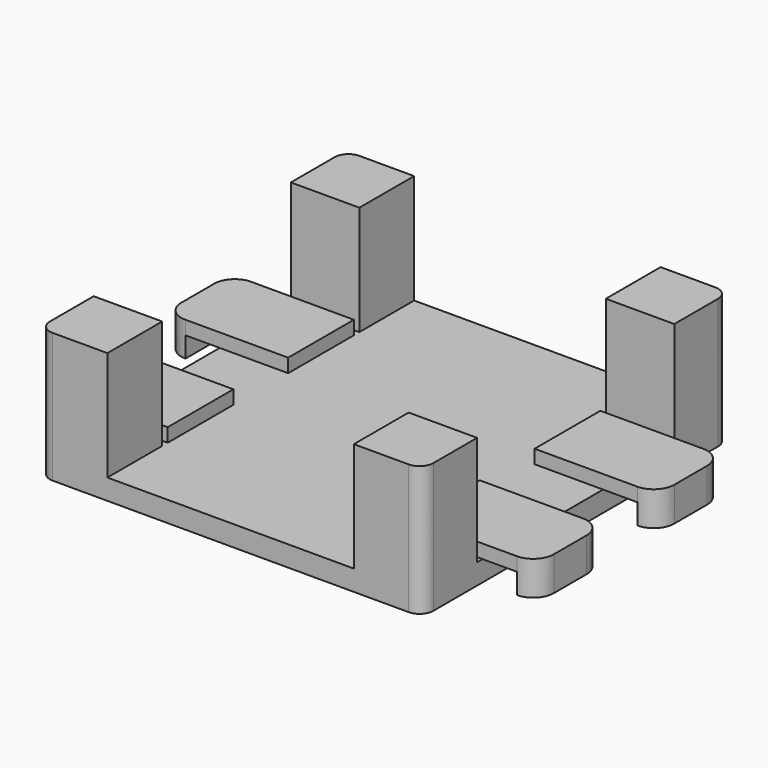
from build123d import *

# Parameters (mm, degrees)
F0_W     = 28
F0_H     = 28
F1_DEPTH = 1.5
F2_W     = 5
F2_H     = 5
F3_DEPTH = 8
F4_R     = 1
F5_W     = 5
F5_H     = 6
F5_W_2   = 2.5
F6_DEPTH = 1
F7_DEPTH = 1.5


with BuildPart() as f1:
    # F0 (on Top) → F1 (new body)
    with BuildSketch(Plane.XY):
        with Locations((14, -14)):
            Rectangle(F0_W, F0_H)
    extrude(amount=F1_DEPTH)

    # F2 (on face) → F3 (join)
    with BuildSketch(Plane.XY.offset(1.5)):
        with Locations((2.5, -2.5)):
            Rectangle(F2_W, F2_H)
        with Locations((25.5, -2.5)):
            Rectangle(F2_W, F2_H)
        with Locations((25.5, -25.5)):
            Rectangle(F2_W, F2_H)
        with Locations((2.5, -25.5)):
            Rectangle(F2_W, F2_H)
    extrude(amount=F3_DEPTH)

    # F4
    f4_edges = [f1.edges().sort_by_distance(p)[0] for p in [
        (0, -28, 4.75),
        (0, 0, 4.75),
        (28, 0, 4.75),
        (28, -28, 4.75),
    ]]
    fillet(f4_edges, radius=F4_R)

    # F5 (on face) → F6 (join)
    with BuildSketch(Plane.XY.offset(1.5)):
        with Locations((25.5, -19.5)):
            Rectangle(F5_W, F5_H)
        with BuildLine():
            Line((30.5, -16.5), (30.5, -22.5))
            ThreePointArc((30.5, -22.5), (31.56066, -22.06066), (32, -21))
            Line((32, -21), (32, -18))
            ThreePointArc((32, -18), (31.56066, -16.93934), (30.5, -16.5))
        make_face()
        with BuildLine():
            Line((30.5, -5.5), (30.5, -11.5))
            ThreePointArc((30.5, -11.5), (31.56066, -11.06066), (32, -10))
            Line((32, -10), (32, -7))
            ThreePointArc((32, -7), (31.56066, -5.93934), (30.5, -5.5))
        make_face()
        with Locations((25.5, -8.5)):
            Rectangle(F5_W, F5_H)
        with Locations((2.5, -19.5)):
            Rectangle(F5_W, F5_H)
        with Locations((2.5, -8.5)):
            Rectangle(F5_W, F5_H)
        with BuildLine():
            ThreePointArc((-4, -10), (-3.56066, -11.06066), (-2.5, -11.5))
            Line((-2.5, -11.5), (-2.5, -5.5))
            ThreePointArc((-2.5, -5.5), (-3.56066, -5.93934), (-4, -7))
            Line((-4, -7), (-4, -10))
        make_face()
        with BuildLine():
            ThreePointArc((-4, -21), (-3.56066, -22.06066), (-2.5, -22.5))
            Line((-2.5, -22.5), (-2.5, -16.5))
            ThreePointArc((-2.5, -16.5), (-3.56066, -16.93934), (-4, -18))
            Line((-4, -18), (-4, -21))
        make_face()
        with Locations((29.25, -8.5)):
            Rectangle(F5_W_2, F5_H)
        with Locations((29.25, -19.5)):
            Rectangle(F5_W_2, F5_H)
        with Locations((-1.25, -19.5)):
            Rectangle(F5_W_2, F5_H)
        with Locations((-1.25, -8.5)):
            Rectangle(F5_W_2, F5_H)
    extrude(amount=F6_DEPTH)

    # F5 (on face) → F7 (join, through all)
    with BuildSketch(Plane.XY.offset(1.5)):
        with BuildLine():
            Line((30.5, -16.5), (30.5, -22.5))
            ThreePointArc((30.5, -22.5), (31.56066, -22.06066), (32, -21))
            Line((32, -21), (32, -18))
            ThreePointArc((32, -18), (31.56066, -16.93934), (30.5, -16.5))
        make_face()
        with BuildLine():
            Line((30.5, -5.5), (30.5, -11.5))
            ThreePointArc((30.5, -11.5), (31.56066, -11.06066), (32, -10))
            Line((32, -10), (32, -7))
            ThreePointArc((32, -7), (31.56066, -5.93934), (30.5, -5.5))
        make_face()
        with BuildLine():
            ThreePointArc((-4, -10), (-3.56066, -11.06066), (-2.5, -11.5))
            Line((-2.5, -11.5), (-2.5, -5.5))
            ThreePointArc((-2.5, -5.5), (-3.56066, -5.93934), (-4, -7))
            Line((-4, -7), (-4, -10))
        make_face()
        with BuildLine():
            ThreePointArc((-4, -21), (-3.56066, -22.06066), (-2.5, -22.5))
            Line((-2.5, -22.5), (-2.5, -16.5))
            ThreePointArc((-2.5, -16.5), (-3.56066, -16.93934), (-4, -18))
            Line((-4, -18), (-4, -21))
        make_face()
    extrude(amount=-F7_DEPTH)


solid = f1.part
